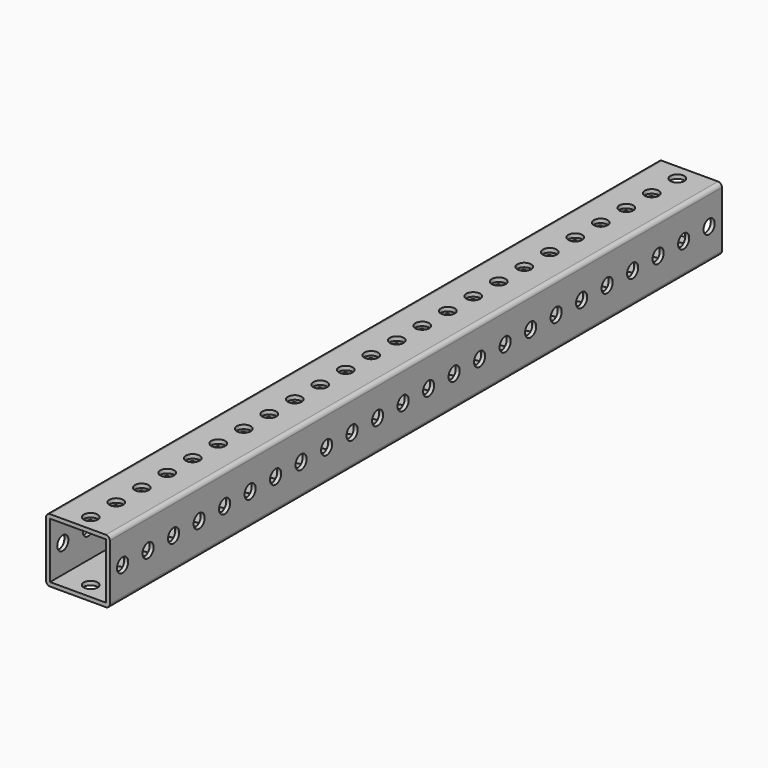
from build123d import *

# Parameters (mm, degrees)
F0_W     = 44.45
F0_H     = 44.45
F1_DEPTH = 304.8
F2_R     = 5.55625
F3_DEPTH = 50.8
F4_R     = 5.55625
F5_DEPTH = 50.8


with BuildPart() as f1:
    # F0 (on Front) → F1 (new body, symmetric)
    with BuildSketch(Plane.XZ):
        with BuildLine():
            Line((-47.625, 0), (-3.175, 0))
            ThreePointArc((-3.175, 0), (-0.929936, 0.929936), (0, 3.175))
            Line((0, 3.175), (0, 47.625))
            ThreePointArc((0, 47.625), (-0.929936, 49.870064), (-3.175, 50.8))
            Line((-3.175, 50.8), (-47.625, 50.8))
            ThreePointArc((-47.625, 50.8), (-49.870064, 49.870064), (-50.8, 47.625))
            Line((-50.8, 47.625), (-50.8, 3.175))
            ThreePointArc((-50.8, 3.175), (-49.870064, 0.929936), (-47.625, 0))
        make_face()
        with Locations((-25.4, 25.4)):
            Rectangle(F0_W, F0_H, mode=Mode.SUBTRACT)
    extrude(amount=F1_DEPTH, both=True)

    # F2 (on face) → F3 (cut)
    with BuildSketch(Plane(origin=(-50.8, 0, 0), x_dir=(0, -1, 0), z_dir=(-1, 0, 0))):
        with Locations((-292.1, 25.4)):
            Circle(F2_R)
        with Locations((-266.7, 25.4)):
            Circle(F2_R)
        with Locations((-241.3, 25.4)):
            Circle(F2_R)
        with Locations((-215.9, 25.4)):
            Circle(F2_R)
        with Locations((-190.5, 25.4)):
            Circle(F2_R)
        with Locations((-165.1, 25.4)):
            Circle(F2_R)
        with Locations((-139.7, 25.4)):
            Circle(F2_R)
        with Locations((-114.3, 25.4)):
            Circle(F2_R)
        with Locations((-88.9, 25.4)):
            Circle(F2_R)
        with Locations((-63.5, 25.4)):
            Circle(F2_R)
        with Locations((-38.1, 25.4)):
            Circle(F2_R)
        with Locations((-12.7, 25.4)):
            Circle(F2_R)
        with Locations((12.7, 25.4)):
            Circle(F2_R)
        with Locations((38.1, 25.4)):
            Circle(F2_R)
        with Locations((63.5, 25.4)):
            Circle(F2_R)
        with Locations((88.9, 25.4)):
            Circle(F2_R)
        with Locations((114.3, 25.4)):
            Circle(F2_R)
        with Locations((139.7, 25.4)):
            Circle(F2_R)
        with Locations((165.1, 25.4)):
            Circle(F2_R)
        with Locations((190.5, 25.4)):
            Circle(F2_R)
        with Locations((215.9, 25.4)):
            Circle(F2_R)
        with Locations((241.3, 25.4)):
            Circle(F2_R)
        with Locations((266.7, 25.4)):
            Circle(F2_R)
        with Locations((292.1, 25.4)):
            Circle(F2_R)
    extrude(amount=-F3_DEPTH, mode=Mode.SUBTRACT)

    # F4 (on face) → F5 (cut)
    with BuildSketch(Plane.XY.offset(50.8)):
        with Locations((-25.4, -292.1)):
            Circle(F4_R)
        with Locations((-25.4, -266.7)):
            Circle(F4_R)
        with Locations((-25.4, -241.3)):
            Circle(F4_R)
        with Locations((-25.4, -215.9)):
            Circle(F4_R)
        with Locations((-25.4, -190.5)):
            Circle(F4_R)
        with Locations((-25.4, -165.1)):
            Circle(F4_R)
        with Locations((-25.4, -139.7)):
            Circle(F4_R)
        with Locations((-25.4, -114.3)):
            Circle(F4_R)
        with Locations((-25.4, -88.9)):
            Circle(F4_R)
        with Locations((-25.4, -63.5)):
            Circle(F4_R)
        with Locations((-25.4, -38.1)):
            Circle(F4_R)
        with Locations((-25.4, -12.7)):
            Circle(F4_R)
        with Locations((-25.4, 12.7)):
            Circle(F4_R)
        with Locations((-25.4, 38.1)):
            Circle(F4_R)
        with Locations((-25.4, 63.5)):
            Circle(F4_R)
        with Locations((-25.4, 88.9)):
            Circle(F4_R)
        with Locations((-25.4, 114.3)):
            Circle(F4_R)
        with Locations((-25.4, 139.7)):
            Circle(F4_R)
        with Locations((-25.4, 165.1)):
            Circle(F4_R)
        with Locations((-25.4, 190.5)):
            Circle(F4_R)
        with Locations((-25.4, 215.9)):
            Circle(F4_R)
        with Locations((-25.4, 241.3)):
            Circle(F4_R)
        with Locations((-25.4, 266.7)):
            Circle(F4_R)
        with Locations((-25.4, 292.1)):
            Circle(F4_R)
    extrude(amount=-F5_DEPTH, mode=Mode.SUBTRACT)


solid = f1.part
